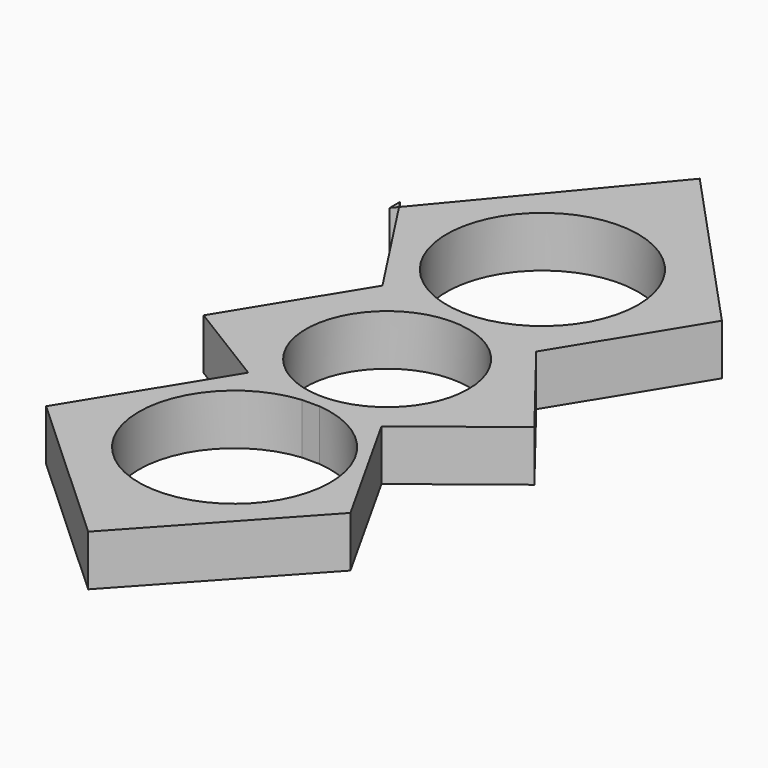
from build123d import *

# Parameters (mm, degrees)
F0_R     = 11.2
F0_R_2   = 13.2
F1_DEPTH = 7


with BuildPart() as f1:
    # F0 (on Top) → F1 (new body)
    with BuildSketch(Plane.XY):
        Polygon((-21.149889, 28.49551), (-21.809507, 29.507946), (-21.809507, 27.703969), align=None)
        Polygon((0, 53.875376), (-21.149889, 28.49551), (-11.100657, 13.071108), (-21.809507, -4.361901), (-9.701975, -11.799386), (-21.809507, -31.509321), (0, -51.517591), (19.313738, -30.46514), (9.313249, -12.614148), (22.281066, -2.475674), (11.431193, 11.402072), (22.551891, 29.507946), align=None)
        with BuildLine():
            ThreePointArc((1.207565, -13.144649), (0, -39.489297), (-1.207565, -13.144649))
            Line((-1.207565, -13.144649), (1.207565, -13.144649))
        make_face(mode=Mode.SUBTRACT)
        Circle(F0_R, mode=Mode.SUBTRACT)
        with Locations((0, 26.760854)):
            Circle(F0_R_2, mode=Mode.SUBTRACT)
    extrude(amount=F1_DEPTH)


solid = f1.part
